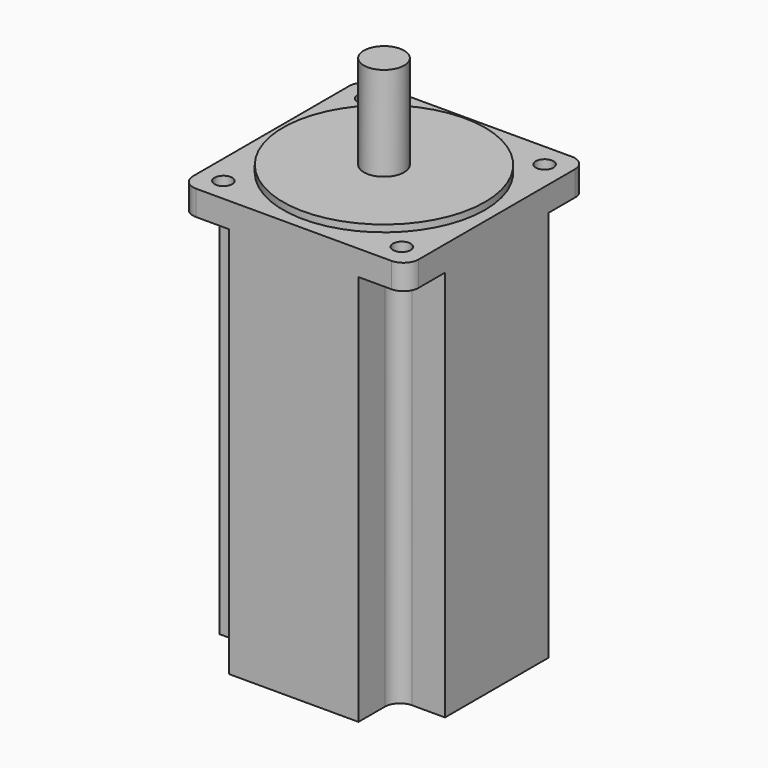
from build123d import *

# Parameters (mm, degrees)
F0_R     = 40
F1_DEPTH = 2.74
F2_R     = 8
F3_DEPTH = 40
F4_R     = 3.5
F5_DEPTH = 9.9
F7_DEPTH = 155.2


with BuildPart() as f1:
    # F0 (on Top) → F1 (new body)
    with BuildSketch(Plane.XY):
        Circle(F0_R)
    extrude(amount=F1_DEPTH)

    # F2 (on face) → F3 (join)
    with BuildSketch(Plane(origin=(0, 0, 0), x_dir=(1, 0, 0), z_dir=(0, 0, -1))):
        Circle(F2_R)
    extrude(amount=-F3_DEPTH)

    # F4 (on face) → F5 (join)
    with BuildSketch(Plane(origin=(0, 0, 0), x_dir=(1, 0, 0), z_dir=(0, 0, -1))):
        with BuildLine():
            Line((-38.7, -44.7), (38.7, -44.7))
            ThreePointArc((38.7, -44.7), (42.942641, -42.942641), (44.7, -38.7))
            Line((44.7, -38.7), (44.7, 38.7))
            ThreePointArc((44.7, 38.7), (42.942641, 42.942641), (38.7, 44.7))
            Line((38.7, 44.7), (-38.7, 44.7))
            ThreePointArc((-38.7, 44.7), (-42.942641, 42.942641), (-44.7, 38.7))
            Line((-44.7, 38.7), (-44.7, -38.7))
            ThreePointArc((-44.7, -38.7), (-42.942641, -42.942641), (-38.7, -44.7))
        make_face()
        with Locations((-35.355339, -35.355339)):
            Circle(F4_R, mode=Mode.SUBTRACT)
        with Locations((35.355339, -35.355339)):
            Circle(F4_R, mode=Mode.SUBTRACT)
        with Locations((-35.355339, 35.355339)):
            Circle(F4_R, mode=Mode.SUBTRACT)
        with Locations((35.355339, 35.355339)):
            Circle(F4_R, mode=Mode.SUBTRACT)
    extrude(amount=F5_DEPTH)

    # F6 (on face) → F7 (join)
    with BuildSketch(Plane(origin=(0, 0, -9.9), x_dir=(1, 0, 0), z_dir=(0, 0, -1))):
        with BuildLine():
            Line((44.7, 0), (44.7, 25.65))
            Line((44.7, 25.65), (31.65, 25.65))
            ThreePointArc((31.65, 25.65), (27.407359, 27.407359), (25.65, 31.65))
            Line((25.65, 31.65), (25.65, 44.7))
            Line((25.65, 44.7), (0, 44.7))
            Line((0, 44.7), (0, 0))
            Line((0, 0), (44.7, 0))
        make_face()
        with BuildLine():
            Line((44.7, -25.65), (44.7, 0))
            Line((44.7, 0), (0, 0))
            Line((0, 0), (0, -44.7))
            Line((0, -44.7), (25.65, -44.7))
            Line((25.65, -44.7), (25.65, -31.65))
            ThreePointArc((25.65, -31.65), (27.407359, -27.407359), (31.65, -25.65))
            Line((31.65, -25.65), (44.7, -25.65))
        make_face()
        with BuildLine():
            Line((-44.7, 0), (0, 0))
            Line((0, 0), (0, 44.7))
            Line((0, 44.7), (-25.65, 44.7))
            Line((-25.65, 44.7), (-25.65, 31.65))
            ThreePointArc((-25.65, 31.65), (-27.407359, 27.407359), (-31.65, 25.65))
            Line((-31.65, 25.65), (-44.7, 25.65))
            Line((-44.7, 25.65), (-44.7, 0))
        make_face()
        with BuildLine():
            Line((0, -44.7), (0, 0))
            Line((0, 0), (-44.7, 0))
            Line((-44.7, 0), (-44.7, -25.65))
            Line((-44.7, -25.65), (-31.65, -25.65))
            ThreePointArc((-31.65, -25.65), (-27.407359, -27.407359), (-25.65, -31.65))
            Line((-25.65, -31.65), (-25.65, -44.7))
            Line((-25.65, -44.7), (0, -44.7))
        make_face()
    extrude(amount=F7_DEPTH)


solid = f1.part
